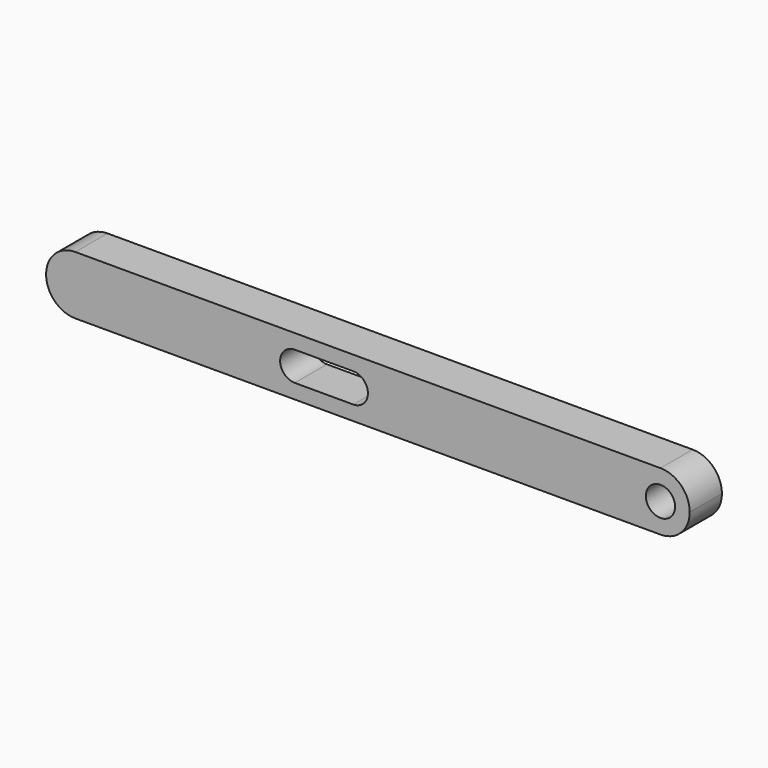
from build123d import *

# Parameters (mm, degrees)
F1_DEPTH = 5.5
F2_R     = 2
F3_DEPTH = 25


with BuildPart() as f1:
    # F0 (on Front) → F1 (new body)
    with BuildSketch(Plane.XZ):
        with BuildLine():
            ThreePointArc((0, -4), (-4, 0), (0, 4))
            Line((0, 4), (-80, 4))
            ThreePointArc((-80, 4), (-77.171573, 2.828427), (-76, 0))
            ThreePointArc((-76, 0), (-77.171573, -2.828427), (-80, -4))
            Line((-80, -4), (0, -4))
        make_face()
        with BuildLine():
            ThreePointArc((-76, 0), (-77.171573, 2.828427), (-80, 4))
            ThreePointArc((-80, 4), (-84, 0), (-80, -4))
            ThreePointArc((-80, -4), (-77.171573, -2.828427), (-76, 0))
        make_face()
        with BuildLine():
            ThreePointArc((0, -4), (2.828427, -2.828427), (4, 0))
            ThreePointArc((4, 0), (2.828427, 2.828427), (0, 4))
            ThreePointArc((0, 4), (-4, 0), (0, -4))
        make_face()
    extrude(amount=F1_DEPTH)

    # F2 (on face) → F3 (cut)
    with BuildSketch(Plane.XZ.offset(5.5)):
        Circle(F2_R)
        with BuildLine():
            ThreePointArc((-50, 2), (-48.585786, 1.414214), (-48, 0))
            ThreePointArc((-48, 0), (-48.585786, -1.414214), (-50, -2))
            Line((-50, -2), (-42, -2))
            ThreePointArc((-42, -2), (-44, 0), (-42, 2))
            Line((-42, 2), (-50, 2))
        make_face()
        with BuildLine():
            ThreePointArc((-40, 0), (-40.585786, 1.414214), (-42, 2))
            ThreePointArc((-42, 2), (-44, 0), (-42, -2))
            ThreePointArc((-42, -2), (-40.585786, -1.414214), (-40, 0))
        make_face()
        with BuildLine():
            ThreePointArc((-50, -2), (-48.585786, -1.414214), (-48, 0))
            ThreePointArc((-48, 0), (-48.585786, 1.414214), (-50, 2))
            ThreePointArc((-50, 2), (-52, 0), (-50, -2))
        make_face()
    extrude(amount=-F3_DEPTH, mode=Mode.SUBTRACT)


solid = f1.part
